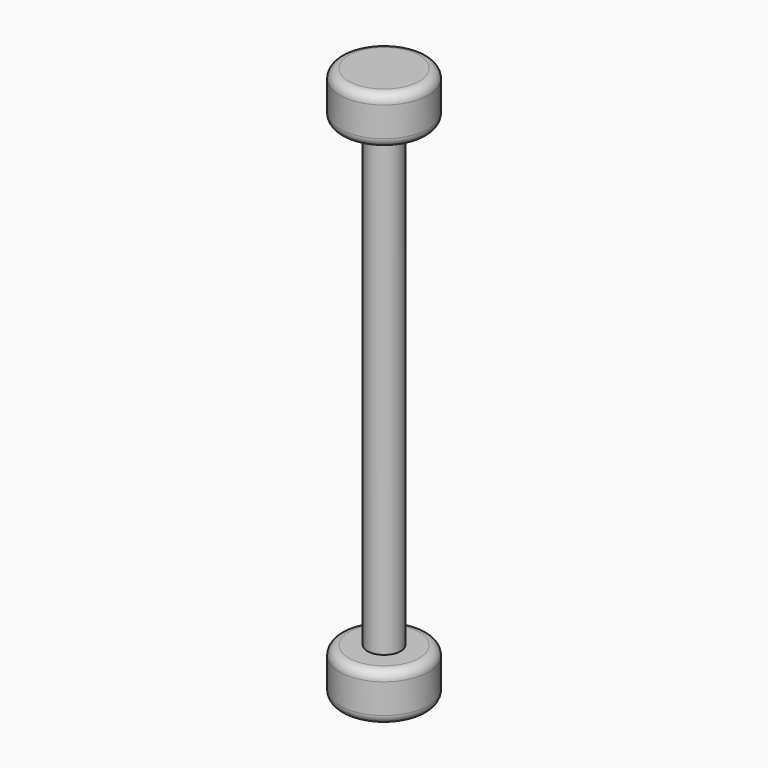
from build123d import *

# Parameters (mm, degrees)
F0_R     = 4.5
F1_DEPTH = 150
F0_R_2   = 12
F2_DEPTH = 13
F3_R     = 12
F4_DEPTH = 13
F5_R     = 2.5


with BuildPart() as f1:
    # F0 (on Top) → F1 (new body)
    with BuildSketch(Plane.XY):
        Circle(F0_R)
    extrude(amount=F1_DEPTH)

    # F0 (on Top) → F2 (join)
    with BuildSketch(Plane.XY):
        Circle(F0_R_2)
        Circle(F0_R, mode=Mode.SUBTRACT)
    extrude(amount=F2_DEPTH)

    # F3 (on face) → F4 (join)
    with BuildSketch(Plane.XY.offset(150)):
        Circle(F3_R)
    extrude(amount=-F4_DEPTH)

    # F5
    f5_edges = [f1.edges().sort_by_distance(p)[0] for p in [
        (-12, 0, 150),
        (-12, 0, 137),
        (-12, 0, 13),
        (-12, 0, 0),
    ]]
    fillet(f5_edges, radius=F5_R)


solid = f1.part
